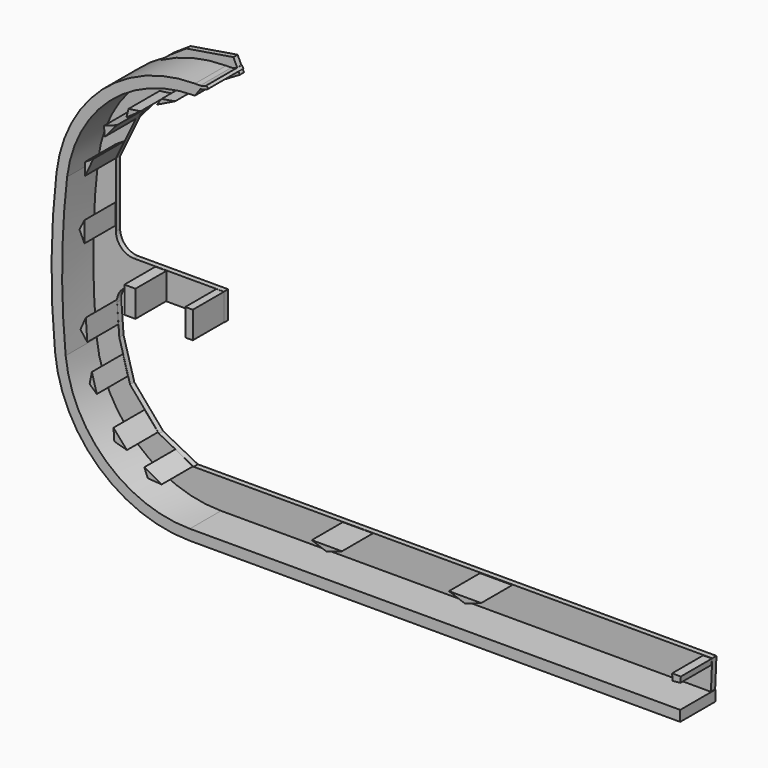
from build123d import *

# Parameters (mm, degrees)
PAD356_DEPTH  = 12.5
PAD357_DEPTH  = 1.5
SKETCH835_W   = 2.131072
SKETCH835_H   = 7.619457
SKETCH835_W_2 = 3.147286
SKETCH835_H_2 = 7.516819
PAD359_DEPTH  = 11


with BuildPart() as part:
    # Sketch830 → Pad356 (new body)
    with BuildSketch(Plane.XZ):
        with BuildLine():
            Line((-1.478534, -110.025169), (137.370667, -110.025169))
            Line((137.370667, -107.025169), (137.370667, -110.025169))
            Line((-1.431571, -107.025169), (137.370667, -107.025169))
            ThreePointArc((-36.592097, -75.335952), (-25.110465, -97.94725), (-1.431571, -107.025169))
            ThreePointArc((-36.186878, -30.666211), (-37.587109, -52.990217), (-36.592097, -75.335952))
            ThreePointArc((0, 1.374966), (-24.161208, -7.792765), (-36.186878, -30.666211))
            Line((1.544739, 3.529825), (0, 1.374966))
            ThreePointArc((1.544739, 3.529825), (2.72516, 3.732882), (3.781105, 4.298219))
            Line((3.239563, 4.948117), (3.781105, 4.298219))
            ThreePointArc((1.508208, 4.37461), (2.420143, 4.521718), (3.239563, 4.948117))
            Line((0.022068, 4.37461), (1.508208, 4.37461))
            ThreePointArc((0.022068, 4.37461), (-26.243945, -5.630658), (-39.196845, -30.575221))
            ThreePointArc((-39.196845, -30.575221), (-40.587676, -52.998313), (-39.596378, -75.442618))
            ThreePointArc((-39.596378, -75.442618), (-27.212376, -100.091175), (-1.478534, -110.025169))
        make_face()
    extrude(amount=PAD356_DEPTH)

    # Sketch831 → Pad357 (join)
    with BuildSketch(Plane.XZ):
        with BuildLine():
            Line((-11.20697, 4.995917), (2.081055, 7.171183))
            Line((2.081055, 7.171183), (3.884949, 3.346928))
            Line((3.884949, 3.346928), (-3.071976, -0.758803))
            Line((-3.071976, -0.758803), (-10.956131, -4.609589))
            Line((-10.956131, -4.609589), (-19.896614, -10.750674))
            Line((-19.896614, -10.750674), (-25.51712, -17.174105))
            Line((-25.51712, -17.174105), (-31.174488, -28.94161))
            Line((-31.174488, -28.94161), (-31.174488, -40.845127))
            Line((-31.174488, -40.845127), (-31.174488, -47.004086))
            ThreePointArc((-31.174488, -47.004086), (-29.668559, -50.63972), (-26.032925, -52.145649))
            Line((-26.032925, -52.145649), (-0.596695, -52.145649))
            Line((-0.596695, -52.145649), (-0.596695, -59.85376))
            Line((-0.596695, -59.85376), (-26.454301, -59.85376))
            ThreePointArc((-26.454301, -59.85376), (-29.668775, -61.254046), (-30.832452, -64.561539))
            Line((-30.832452, -64.561539), (-30.207592, -73.162094))
            Line((-30.207592, -73.162094), (-27.154285, -83.944923))
            Line((-27.154285, -83.944923), (-18.964409, -93.499779))
            Line((-18.964409, -93.499779), (-9.168678, -98.558228))
            Line((-9.168678, -98.558228), (-2.331345, -98.558228))
            Line((-2.331345, -98.558228), (137.626465, -98.558228))
            Line((137.626465, -98.558228), (137.14772, -109.564461))
            Line((137.14772, -109.564461), (2.745987, -109.564461))
            Line((2.745987, -109.564461), (-3.35627, -109.564461))
            Line((-3.35627, -109.564461), (-8.527748, -108.903885))
            Line((-8.527748, -108.903885), (-14.660988, -106.811363))
            Line((-14.660988, -106.811363), (-18.737785, -105.296097))
            Line((-18.737785, -105.296097), (-23.031059, -102.842796))
            Line((-23.031059, -102.842796), (-25.966358, -100.308403))
            Line((-25.966358, -100.308403), (-29.71846, -96.772774))
            Line((-29.71846, -96.772774), (-33.867416, -91.108543))
            Line((-33.867416, -91.108543), (-35.409092, -87.704582))
            Line((-35.409092, -87.704582), (-37.577, -82.887016))
            Line((-37.577, -82.887016), (-39.02227, -76.142418))
            Line((-39.02227, -76.142418), (-39.504028, -68.916061))
            Line((-39.504028, -68.916061), (-39.795753, -62.945045))
            Line((-39.795753, -62.945045), (-39.795753, -54.118259))
            Line((-39.795753, -54.118259), (-39.795753, -44.679527))
            Line((-39.795753, -44.679527), (-38.558964, -32.354319))
            Line((-38.558964, -32.354319), (-38.395519, -29.4237))
            Line((-38.395519, -29.4237), (-36.619396, -22.319212))
            Line((-36.619396, -22.319212), (-33.174793, -14.730327))
            Line((-33.174793, -14.730327), (-28.806725, -8.890129))
            Line((-28.806725, -8.890129), (-22.724854, -3.669405))
            Line((-22.724854, -3.669405), (-15.835655, 1.92807))
            Line((-15.835655, 1.92807), (-11.20697, 4.995917))
        make_face()
    extrude(amount=PAD357_DEPTH)

    # Sketch835 → Pad359 (join)
    with BuildSketch(Plane.XZ.offset(1.5)):
        Polygon((-10.797218, -4.39096), (-5.61734, -1.866684), (-9.447662, -2.509944), align=None)
        Polygon((-19.402313, -10.356634), (-15.412445, -7.539076), (-18.804184, -8.036141), align=None)
        Polygon((-25.540901, -17.185297), (-22.080704, -13.161652), (-25.735592, -14.506651), align=None)
        Polygon((-28.749714, -23.759703), (-31.132679, -28.766081), (-31.176563, -25.309376), align=None)
        Polygon((-31.262688, -39.822292), (-31.262688, -45.629166), (-32.695404, -42.60001), align=None)
        with Locations((-1.667923, -55.987685)):
            Rectangle(SKETCH835_W, SKETCH835_H)
        with Locations((-18.408268, -55.977922)):
            Rectangle(SKETCH835_W_2, SKETCH835_H_2)
        Polygon((-30.88335, -63.977547), (-30.474003, -69.971565), (-32.403786, -67.427757), align=None)
        Polygon((-29.178089, -76.970978), (-27.78371, -82.030663), (-29.80479, -80.196259), align=None)
        Polygon((-23.049667, -88.872955), (-19.251656, -93.215378), (-22.826111, -92.215782), align=None)
        Polygon((-14.334663, -95.893806), (-9.420021, -98.582397), (-13.340538, -98.320648), align=None)
        Polygon((33.074181, -98.633934), (41.61673, -98.633934), (37.240623, -100.138222), align=None)
        Polygon((71.901031, -98.722458), (81.025146, -98.722458), (76.512283, -100.363495), align=None)
        Polygon((135.082978, -98.65696), (135.205872, -100.520859), (137.438461, -100.254593), (137.540878, -98.656967), align=None)
    extrude(amount=PAD359_DEPTH)


with BuildPart() as part_1:
    # Body024 placement: moved
    add(part.part.moved(Location((88, -111, 4))))


solid = part_1.part
